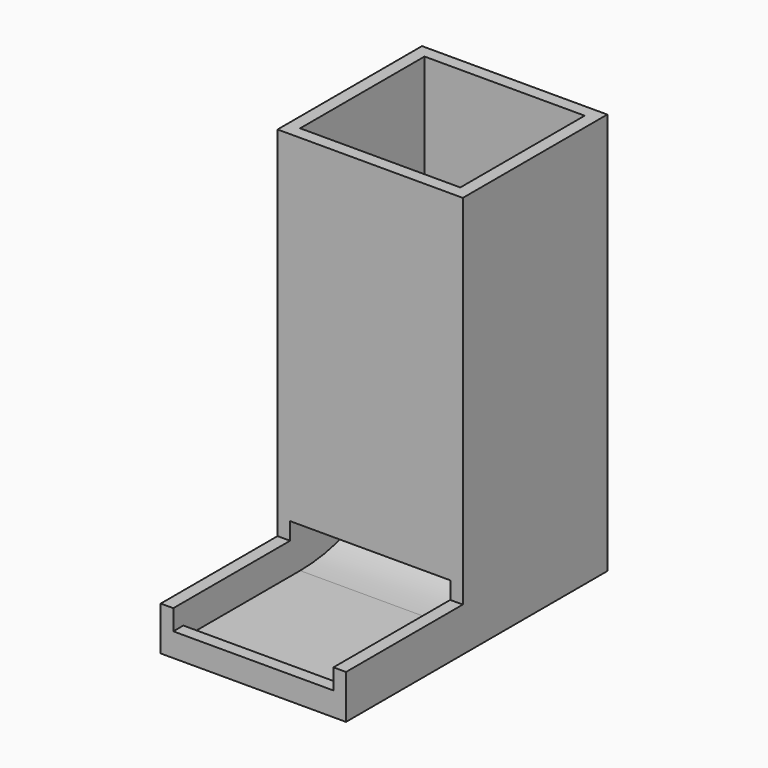
from build123d import *

# Parameters (mm, degrees)
F0_W     = 4
F0_H     = 6.48995
F0_W_2   = 49.5
F0_H_2   = 4
F1_DEPTH = 4
F2_DEPTH = 55
F3_DEPTH = 51


with BuildPart() as f1:
    # F0 (on Right) → F1 (new body)
    with BuildSketch(Plane.YZ):
        Polygon((46.5, 0), (0, 0), (-46.5, 0), (-46.5, 3.51005), (-50.5, 3.51005), (-50.5, -4), (0, -4), (46.5, -4), (53.5, -4), (53.5, 124), (49.5, 124), (49.5, 120), (49.5, 29.608211), (49.5, 0), align=None)
        with BuildLine():
            ThreePointArc((31.99437, 10), (16.760368, 2.558245), (0, 0))
            Line((0, 0), (46.5, 0))
            Line((46.5, 0), (49.5, 0))
            Line((49.5, 0), (49.5, 29.608211))
            ThreePointArc((49.5, 29.608211), (41.910065, 18.76592), (31.99437, 10))
        make_face()
        with BuildLine():
            Line((0, 10), (0, 0))
            ThreePointArc((0, 0), (16.760368, 2.558245), (31.99437, 10))
            Line((31.99437, 10), (0, 10))
        make_face()
        Polygon((-46.5, 0), (0, 0), (0, 10), (-4, 10), (-46.5, 10), (-46.5, 3.51005), align=None)
        with BuildLine():
            Line((0, 10), (31.99437, 10))
            ThreePointArc((31.99437, 10), (41.910065, 18.76592), (49.5, 29.608211))
            Line((49.5, 29.608211), (49.5, 120))
            Line((49.5, 120), (0, 120))
            Line((0, 120), (0, 56.181986))
            Line((0, 56.181986), (0, 15.5))
            Line((0, 15.5), (-4, 15.5))
            Line((-4, 15.5), (-4, 10))
            Line((-4, 10), (0, 10))
        make_face()
        with Locations((-48.5, 6.755025)):
            Rectangle(F0_W, F0_H)
        Polygon((-4, 124), (-4, 15.5), (0, 15.5), (0, 56.181986), (0, 120), (0, 124), align=None)
        with Locations((24.75, 122)):
            Rectangle(F0_W_2, F0_H_2)
    extrude(amount=-F1_DEPTH)

    # F0 (on Right) → F2 (join)
    with BuildSketch(Plane.YZ):
        Polygon((46.5, 0), (0, 0), (-46.5, 0), (-46.5, 3.51005), (-50.5, 3.51005), (-50.5, -4), (0, -4), (46.5, -4), (53.5, -4), (53.5, 124), (49.5, 124), (49.5, 120), (49.5, 29.608211), (49.5, 0), align=None)
        with BuildLine():
            ThreePointArc((31.99437, 10), (16.760368, 2.558245), (0, 0))
            Line((0, 0), (46.5, 0))
            Line((46.5, 0), (49.5, 0))
            Line((49.5, 0), (49.5, 29.608211))
            ThreePointArc((49.5, 29.608211), (41.910065, 18.76592), (31.99437, 10))
        make_face()
        with BuildLine():
            Line((0, 10), (31.99437, 10))
            ThreePointArc((31.99437, 10), (41.910065, 18.76592), (49.5, 29.608211))
            Line((49.5, 29.608211), (49.5, 120))
            Line((49.5, 120), (0, 120))
            Line((0, 120), (0, 56.181986))
            Line((0, 56.181986), (0, 15.5))
            Line((0, 15.5), (-4, 15.5))
            Line((-4, 15.5), (-4, 10))
            Line((-4, 10), (0, 10))
        make_face()
        Polygon((-46.5, 0), (0, 0), (0, 10), (-4, 10), (-46.5, 10), (-46.5, 3.51005), align=None)
        with BuildLine():
            Line((0, 10), (0, 0))
            ThreePointArc((0, 0), (16.760368, 2.558245), (31.99437, 10))
            Line((31.99437, 10), (0, 10))
        make_face()
        with Locations((-48.5, 6.755025)):
            Rectangle(F0_W, F0_H)
        Polygon((-4, 124), (-4, 15.5), (0, 15.5), (0, 56.181986), (0, 120), (0, 124), align=None)
        with Locations((24.75, 122)):
            Rectangle(F0_W_2, F0_H_2)
    extrude(amount=F2_DEPTH)

    # F0 (on Right) → F3 (cut)
    with BuildSketch(Plane.YZ):
        with BuildLine():
            Line((0, 10), (31.99437, 10))
            ThreePointArc((31.99437, 10), (41.910065, 18.76592), (49.5, 29.608211))
            Line((49.5, 29.608211), (49.5, 120))
            Line((49.5, 120), (0, 120))
            Line((0, 120), (0, 56.181986))
            Line((0, 56.181986), (0, 15.5))
            Line((0, 15.5), (-4, 15.5))
            Line((-4, 15.5), (-4, 10))
            Line((-4, 10), (0, 10))
        make_face()
        with BuildLine():
            Line((0, 10), (0, 0))
            ThreePointArc((0, 0), (16.760368, 2.558245), (31.99437, 10))
            Line((31.99437, 10), (0, 10))
        make_face()
        Polygon((-46.5, 0), (0, 0), (0, 10), (-4, 10), (-46.5, 10), (-46.5, 3.51005), align=None)
        with Locations((-48.5, 6.755025)):
            Rectangle(F0_W, F0_H)
        with Locations((24.75, 122)):
            Rectangle(F0_W_2, F0_H_2)
    extrude(amount=F3_DEPTH, mode=Mode.SUBTRACT)


solid = f1.part
